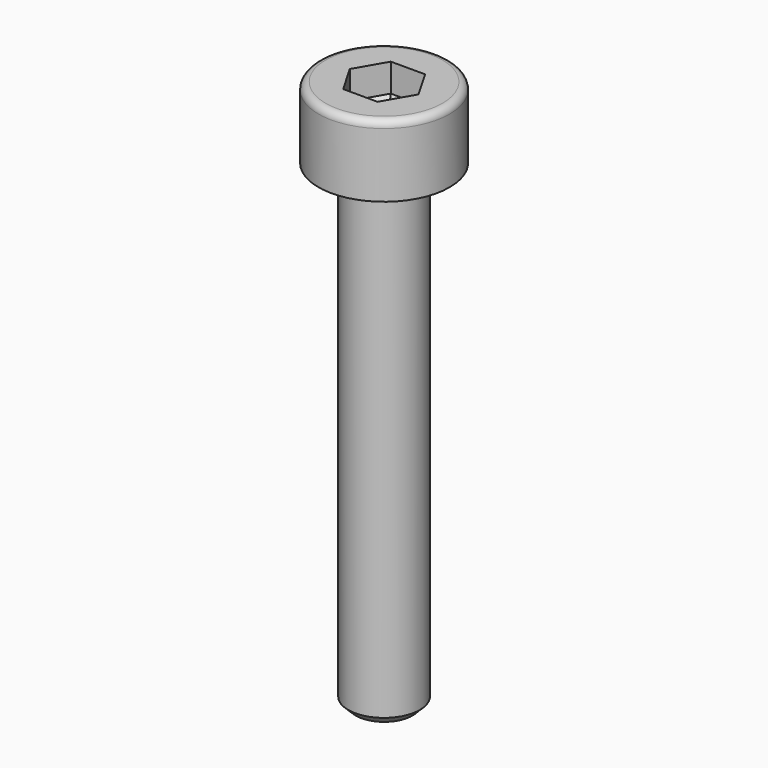
from build123d import *

# Parameters (mm, degrees)
SKETCH_R        = 1.5
PAD_DEPTH       = 20
SKETCH001_R     = 2.75
PAD001_DEPTH    = 3
FILLET_R        = 0.1
FILLET001_R     = 0.3
CHAMFER_SIZE    = 0.31
POCKET_DEPTH    = 2.42
CHAMFER001_SIZE = 1.24


with BuildPart() as part:
    # Sketch → Pad (new body)
    with BuildSketch(Plane.XY):
        Circle(SKETCH_R)
    extrude(amount=PAD_DEPTH)

    # Sketch001 → Pad001 (new body)
    with BuildSketch(Plane.XY.offset(20)):
        Circle(SKETCH001_R)
    extrude(amount=PAD001_DEPTH)

    # Fillet
    fillet_edges = [part.edges().sort_by_distance(p)[0] for p in [
        (-1.5, 0, 20),
    ]]
    fillet(fillet_edges, radius=FILLET_R)

    # Fillet001
    fillet001_edges = [part.edges().sort_by_distance(p)[0] for p in [
        (-2.75, 0, 23),
    ]]
    fillet(fillet001_edges, radius=FILLET001_R)

    # Chamfer
    chamfer_edges = [part.edges().sort_by_distance(p)[0] for p in [
        (-1.5, 0, 0),
    ]]
    chamfer(chamfer_edges, length=CHAMFER_SIZE)

    # Sketch002 → Pocket (cut)
    with BuildSketch(Plane.XY.offset(23)):
        Polygon((-0.716624, 1.247077), (0.723376, 1.247077), (1.443376, 0), (0.723376, -1.247077), (-0.716624, -1.247077), (-1.436624, 0), align=None)
    extrude(amount=-POCKET_DEPTH, mode=Mode.SUBTRACT)

    # Chamfer001
    chamfer001_edges = [part.edges().sort_by_distance(p)[0] for p in [
        (0.003376, 1.247077, 20.58),
        (1.083376, 0.623538, 20.58),
        (1.083376, -0.623538, 20.58),
        (0.003376, -1.247077, 20.58),
        (-1.076624, -0.623538, 20.58),
        (-1.076624, 0.623538, 20.58),
    ]]
    chamfer(chamfer001_edges, length=CHAMFER001_SIZE)


solid = part.part
